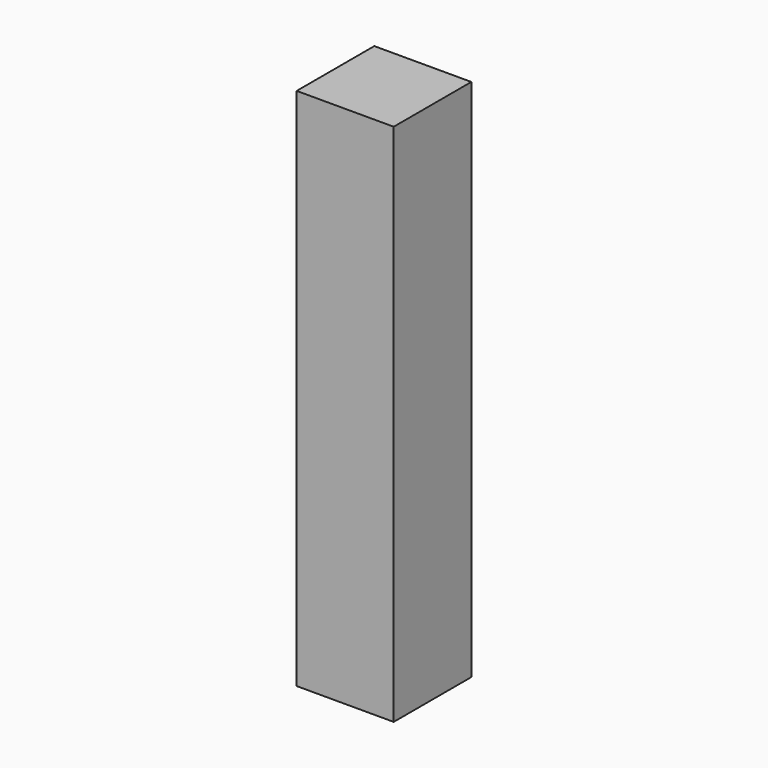
from build123d import *

# Parameters (mm, degrees)
SKETCH_W  = 20
SKETCH_H  = 20
PAD_DEPTH = 108


with BuildPart() as part:
    # Sketch → Pad (new body)
    with BuildSketch(Plane.XY):
        with Locations((10, -10)):
            Rectangle(SKETCH_W, SKETCH_H)
    extrude(amount=PAD_DEPTH)


solid = part.part
